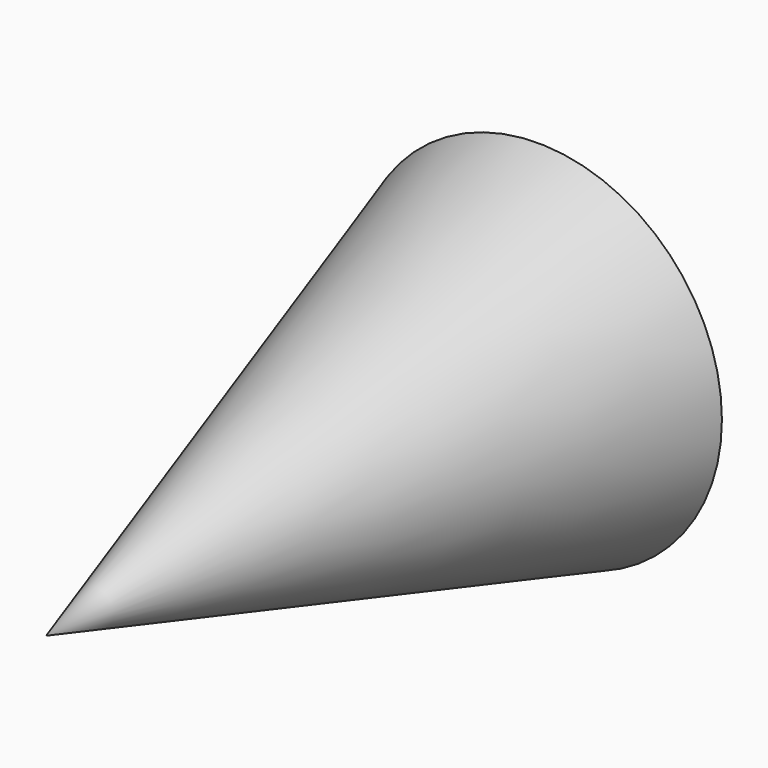
from build123d import *


with BuildPart() as f1:
    # F0 (on Top) → F1 (revolve)
    with BuildSketch(Plane.XY):
        Polygon((55.699099, -9.768663), (40.503405, -9.768663), (40.503405, -60.627732), align=None)
    revolve(axis=Axis((40.503405, -35.198198, 0), (0, -1, 0)))


solid = f1.part
